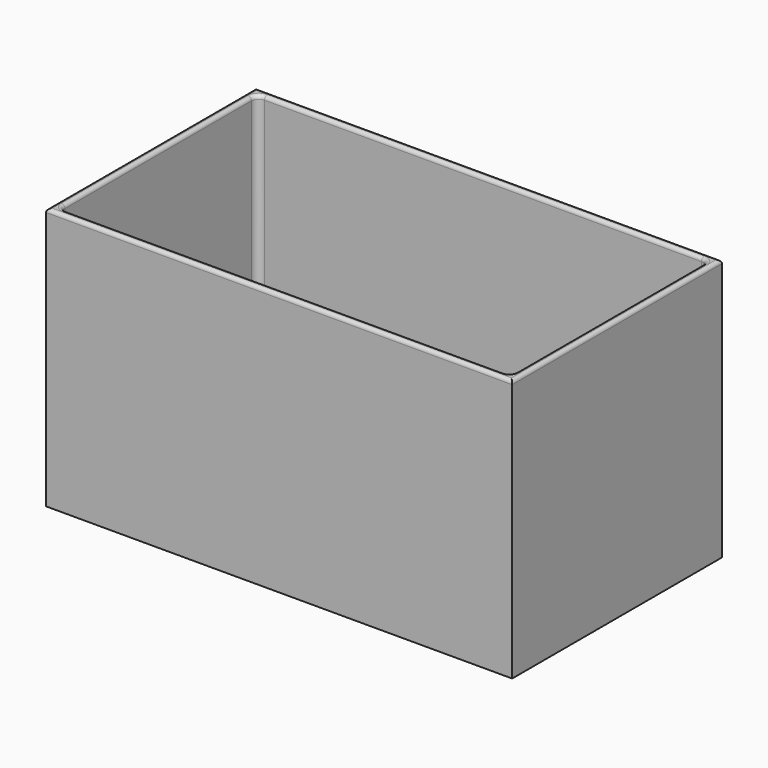
from build123d import *

# Parameters (mm, degrees)
F0_W     = 101.6
F0_H     = 57.15
F0_W_2   = 98.425
F0_H_2   = 53.975
F1_DEPTH = 57.15
F2_DEPTH = 1.5875
F3_R     = 1.5748
F4_R     = 0.762
F5_R     = 20.6375
F6_DEPTH = 6.35


with BuildPart() as f1:
    # F0 (on Top) → F1 (new body)
    with BuildSketch(Plane.XY):
        Rectangle(F0_W, F0_H)
        Rectangle(F0_W_2, F0_H_2, mode=Mode.SUBTRACT)
    extrude(amount=F1_DEPTH)

    # F0 (on Top) → F2 (join)
    with BuildSketch(Plane.XY):
        Rectangle(F0_W_2, F0_H_2)
    extrude(amount=F2_DEPTH)

    # F3
    f3_edges = [f1.edges().sort_by_distance(p)[0] for p in [
        (-49.2125, 26.9875, 29.36875),
        (49.2125, 26.9875, 29.36875),
        (49.2125, -26.9875, 29.36875),
        (49.2125, 0, 1.5875),
        (0, -26.9875, 1.5875),
        (-49.2125, 0, 1.5875),
        (0, 26.9875, 1.5875),
        (-49.2125, -26.9875, 29.36875),
    ]]
    fillet(f3_edges, radius=F3_R)

    # F4
    f4_edges = [f1.edges().sort_by_distance(p)[0] for p in [
        (0, -28.575, 57.15),
        (50.8, 0, 57.15),
        (0, 28.575, 57.15),
        (-50.8, 0, 57.15),
        (-49.2125, 0, 57.15),
    ]]
    fillet(f4_edges, radius=F4_R)


with BuildPart() as f6:
    # F5 (on Front) → F6 (new body)
    with BuildSketch(Plane.XZ):
        with Locations((-50.13819, -40.545423)):
            Circle(F5_R)
    extrude(amount=F6_DEPTH)


solid = f1.part
